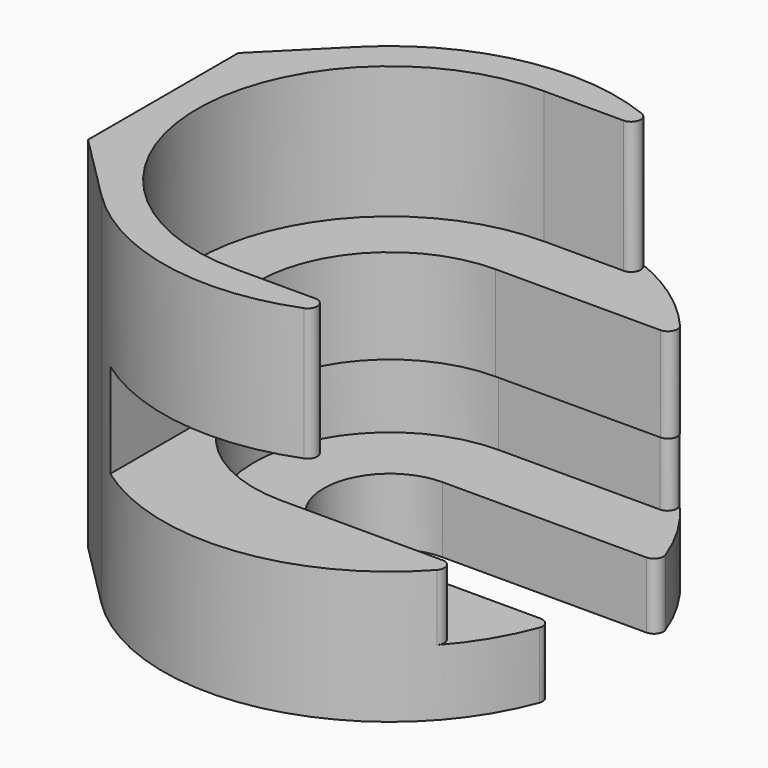
from build123d import *

# Parameters (mm, degrees)
PAD_DEPTH       = 19
POCKET_DEPTH    = 7
POCKET001_DEPTH = 5
POCKET002_DEPTH = 3.5
POCKET003_DEPTH = 3.501
FILLET_R        = 0.5
FILLET001_R     = 0.5


with BuildPart() as part:
    # Sketch → Pad (new body)
    with BuildSketch(Plane(origin=(0, 0, 0), x_dir=(0, -1, 0), z_dir=(0, 0, 1))):
        with BuildLine():
            ThreePointArc((8.485307, -8.485256), (0, 12), (-8.485307, -8.485256))
            Line((-8.485307, -8.485256), (-4.970563, -12))
            Line((-4.970563, -12), (4.970563, -12))
            Line((4.970563, -12), (8.485307, -8.485256))
        make_face()
    extrude(amount=-PAD_DEPTH)

    # Sketch002 → Pocket (cut)
    with BuildSketch(Plane(origin=(0, 0, 0), x_dir=(0, -1, 0), z_dir=(0, 0, 1))):
        with BuildLine():
            ThreePointArc((-10.2, 0), (0, -10.2), (10.2, 0))
            Line((10.2, 20), (10.2, 0))
            Line((-10.2, 20), (10.2, 20))
            Line((-10.2, 0), (-10.2, 20))
        make_face()
    extrude(amount=-POCKET_DEPTH, mode=Mode.SUBTRACT)

    # Sketch003 → Pocket001 (cut)
    with BuildSketch(Plane(origin=(0, 0, -7), x_dir=(0, -1, 0), z_dir=(0, 0, 1))):
        with BuildLine():
            ThreePointArc((-7, 0), (-4.949747, -4.949747), (0, -7))
            Line((20, -7), (0, -7))
            Line((20, 20), (20, -7))
            Line((-7, 20), (20, 20))
            Line((-7, 0), (-7, 20))
        make_face()
    extrude(amount=-POCKET001_DEPTH, mode=Mode.SUBTRACT)

    # Sketch004 → Pocket002 (cut)
    with BuildSketch(Plane(origin=(0, 0, -12), x_dir=(0, -1, 0), z_dir=(0, 0, 1))):
        with BuildLine():
            ThreePointArc((-7.2, 0), (0, -7.2), (7.2, 0))
            Line((7.2, 20), (7.2, 0))
            Line((-7.2, 20), (7.2, 20))
            Line((-7.2, 0), (-7.2, 20))
        make_face()
    extrude(amount=-POCKET002_DEPTH, mode=Mode.SUBTRACT)

    # Sketch005 → Pocket003 (cut, through all)
    with BuildSketch(Plane(origin=(0, 0, -15.5), x_dir=(0, -1, 0), z_dir=(0, 0, 1))):
        with BuildLine():
            ThreePointArc((-3.5, -1e-06), (0, -3.5), (3.5, 0))
            Line((3.5, 20), (3.5, 0))
            Line((-3.5, 20), (3.5, 20))
            Line((-3.5, -1e-06), (-3.5, 20))
        make_face()
    extrude(amount=-POCKET003_DEPTH, mode=Mode.SUBTRACT)

    # Fillet
    fillet_edges = [part.edges().sort_by_distance(p)[0] for p in [
        (6.321392, -10.2, -3.5),
        (9.6, -7.2, -13.75),
        (11.47824, -3.5, -17.25),
        (11.47824, 3.5, -17.25),
        (9.6, 7.2, -13.75),
        (6.321392, 10.2, -3.5),
    ]]
    fillet(fillet_edges, radius=FILLET_R)

    # Fillet001
    fillet001_edges = [part.edges().sort_by_distance(p)[0] for p in [
        (9.746794, 7, -9.5),
    ]]
    fillet(fillet001_edges, radius=FILLET001_R)


solid = part.part
